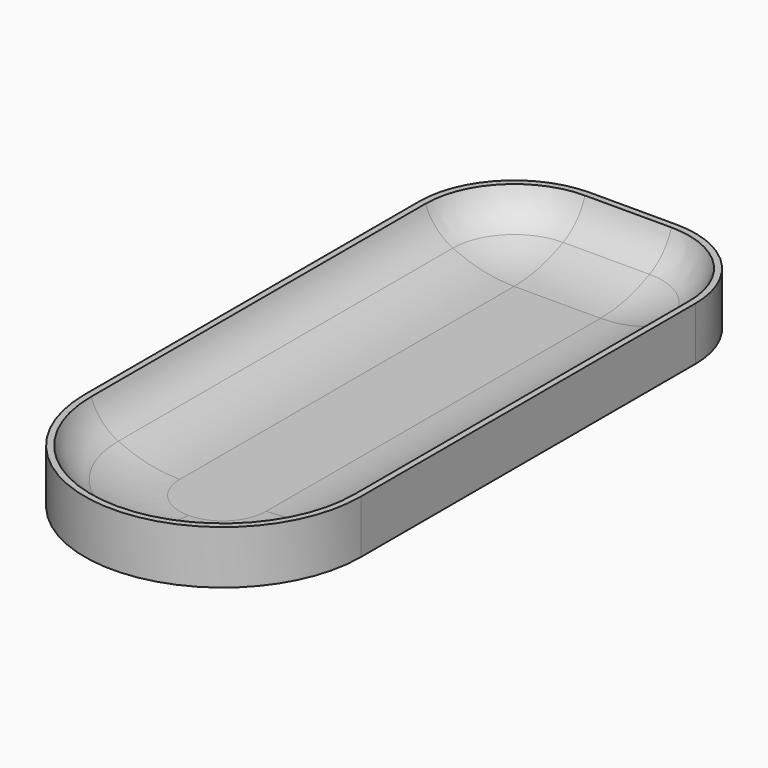
from build123d import *

# Parameters (mm, degrees)
F1_DEPTH = 100
F2_ANGLE = 90
F4_ANGLE = 90
F5_DEPTH = 20.6729215554


with BuildPart() as f1:
    # F0 (on Front) → F1 (new body, symmetric)
    with BuildSketch(Plane.XZ):
        with BuildLine():
            ThreePointArc((50, 6.5869449865), (35.7017719302, 1.6669963579), (20.6729215554, 0))
            Line((20.6729215554, 0), (0, 0))
            Line((0, 0), (0, -4.4683294598))
            Line((0, -4.4683294598), (66.0657225847, -4.4683294598))
            Line((66.0657225847, -4.4683294598), (66.0657225847, 21.0250243545))
            Line((66.0657225847, 21.0250243545), (63.0657225847, 21.0250243545))
            ThreePointArc((63.0657225847, 21.0250243545), (57.9713766483, 12.5042019267), (50, 6.5869449865))
        make_face()
    extrude(amount=F1_DEPTH, both=True)

    # F1_face (on face) → F2 (revolve)
    with BuildSketch(Plane(origin=(44.1969490295, -100, 1.9928313496), x_dir=(1, 0, 0), z_dir=(0, -1, 0))):
        with BuildLine():
            Line((21.8687735552, -6.4611608094), (21.8687735552, 19.0321930048))
            Line((21.8687735552, 19.0321930048), (18.8687735552, 19.0321930048))
            ThreePointArc((18.8687735552, 19.0321930048), (13.7744276188, 10.511370577), (5.8030509705, 4.5941136369))
            ThreePointArc((5.8030509705, 4.5941136369), (-8.4951770993, -0.3258349918), (-23.5240274741, -1.9928313496))
            Line((-23.5240274741, -1.9928313496), (-44.1969490295, -1.9928313496))
            Line((-44.1969490295, -1.9928313496), (-44.1969490295, -6.4611608094))
            Line((-44.1969490295, -6.4611608094), (21.8687735552, -6.4611608094))
        make_face()
    revolve(axis=Axis((0, -100, -2.2341647299), (0, 0, -1)), revolution_arc=F2_ANGLE)

    # F3 (on face) → F4 (revolve)
    with BuildSketch(Plane(origin=(0, 100, 0), x_dir=(-1, 0, 0), z_dir=(0, 1, 0))):
        with BuildLine():
            Line((-63.0657225847, 21.0250243545), (-66.0657225847, 21.0250243545))
            Line((-66.0657225847, 21.0250243545), (-66.0657225847, -4.4683294598))
            Line((-66.0657225847, -4.4683294598), (-20.6729215554, -4.4683294598))
            Line((-20.6729215554, -4.4683294598), (-20.6729215554, 0))
            ThreePointArc((-20.6729215554, 0), (-35.7017719302, 1.6669963579), (-50, 6.5869449865))
            ThreePointArc((-50, 6.5869449865), (-57.9713766483, 12.5042019267), (-63.0657225847, 21.0250243545))
        make_face()
    revolve(axis=Axis((20.6729215554, 100, -2.2341647299), (0, 0, 1)), revolution_arc=F4_ANGLE)

    # F5 (add, through all): a face of the model
    f5_faces = [f1.faces().sort_by_distance(p)[0] for p in [
        (20.6729215554, 129.9863399133, 2.7995583272),
    ]]
    extrude(f5_faces, amount=F5_DEPTH)

    # F6: F1 across face


with BuildPart() as f1_1:
    add(f1.part)
    add(f1.part.mirror(Plane(origin=(0, -10.3364607777, 0.2594817433), x_dir=(0, -1, 0), z_dir=(-1, 0, 0))))


solid = f1_1.part
